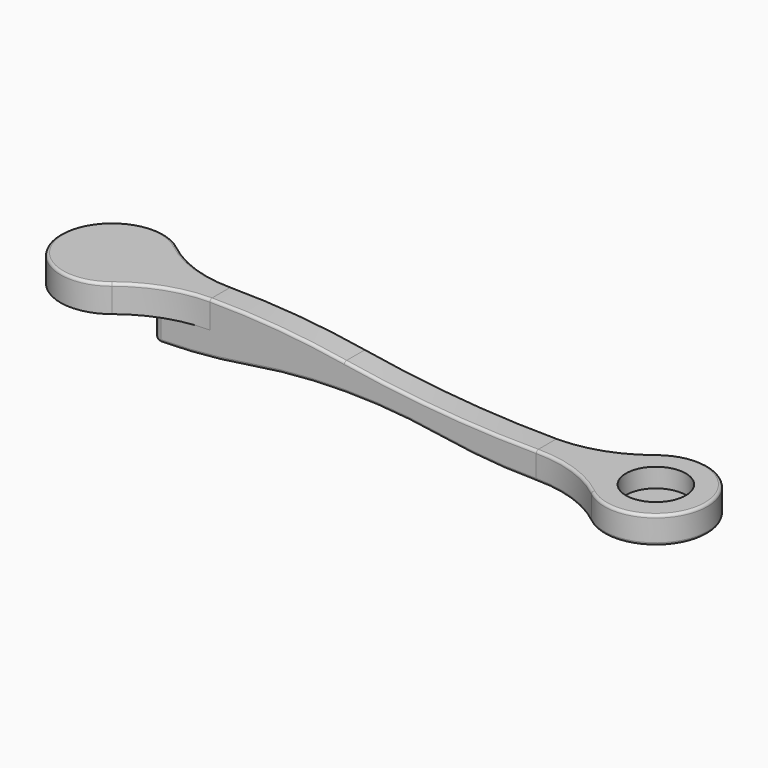
from build123d import *

# Parameters (mm, degrees)
PAD001_DEPTH    = 10
PAD002_DEPTH    = 10
SKETCH006_R     = 11
POCKET004_DEPTH = 7
SKETCH007_R     = 4
PAD003_DEPTH    = 7
POCKET005_DEPTH = 24.001
FILLET002_R     = 1
FILLET003_R     = 3
FILLET004_R     = 1


with BuildPart() as part:
    # Sketch004 (on Binder) → Pad001 (new body)
    with BuildSketch(Plane.XY.offset(31)):
        with BuildLine():
            ThreePointArc((11.848552, 14.853007), (-19, 0), (11.848552, -14.853007))
            ThreePointArc((40, -5), (25.087038, -7.534394), (11.848552, -14.853007))
            Line((40, -5), (181, -5))
            Line((181, 5), (181, -5))
            Line((40, 5), (181, 5))
            ThreePointArc((11.848552, 14.853007), (25.087038, 7.534394), (40, 5))
        make_face()
    extrude(amount=PAD001_DEPTH)

    # Sketch005 (on Face7 of Pad001) → Pad002 (join)
    with BuildSketch(Plane(origin=(0, 0, 31), x_dir=(1, 0, 0), z_dir=(0, 0, -1))):
        with BuildLine():
            Line((19, 5), (160, 5))
            ThreePointArc((160, 5), (174.912962, 7.534394), (188.151448, 14.853007))
            ThreePointArc((188.151448, -14.853007), (219, 0), (188.151448, 14.853007))
            ThreePointArc((188.151448, -14.853007), (174.912962, -7.534394), (160, -5))
            Line((160, -5), (19, -5))
            Line((19, -5), (19, 5))
        make_face()
    extrude(amount=PAD002_DEPTH)

    # Sketch006 (on Face7 of Pad002) → Pocket004 (cut)
    with BuildSketch(Plane.XY.offset(31)):
        with Locations((200, 0)):
            Circle(SKETCH006_R)
    extrude(amount=-POCKET004_DEPTH, mode=Mode.SUBTRACT)

    # Sketch007 (on Face4 of Pocket004) → Pad003 (join)
    with BuildSketch(Plane(origin=(0, 0, 31), x_dir=(1, 0, 0), z_dir=(0, 0, -1))):
        Circle(SKETCH007_R)
    extrude(amount=PAD003_DEPTH)

    # Sketch008 (on Face12 of Pad003) → Pocket005 (cut, through all)
    with BuildSketch(Plane.XZ.offset(5)):
        with BuildLine():
            ThreePointArc((89.5, 36.875), (64.835789, 39.966966), (40, 41))
            Line((188.151448, 41), (40, 41))
            Line((188.151448, 31), (188.151448, 41))
            Line((160, 31), (188.151448, 31))
            ThreePointArc((89.5, 36.875), (124.627816, 32.471291), (160, 31))
        make_face()
        with BuildLine():
            ThreePointArc((19, 21), (36.686092, 21.735646), (54.25, 23.9375))
            ThreePointArc((124.75, 23.9375), (89.5, 26.875), (54.25, 23.9375))
            ThreePointArc((124.75, 23.9375), (142.313908, 21.735646), (160, 21))
            Line((19, 21), (160, 21))
        make_face()
    extrude(amount=-POCKET005_DEPTH, mode=Mode.SUBTRACT)

    # Fillet002
    fillet002_edges = [part.edges().sort_by_distance(p)[0] for p in [
        (-4, 0, 24),
    ]]
    fillet(fillet002_edges, radius=FILLET002_R)

    # Fillet003
    fillet003_edges = [part.edges().sort_by_distance(p)[0] for p in [
        (19, 5, 26),
        (19, -5, 26),
    ]]
    fillet(fillet003_edges, radius=FILLET003_R)

    # Fillet004
    fillet004_edges = [part.edges().sort_by_distance(p)[0] for p in [
        (219, 0, 21),
        (-19, 0, 41),
    ]]
    fillet(fillet004_edges, radius=FILLET004_R)


solid = part.part
